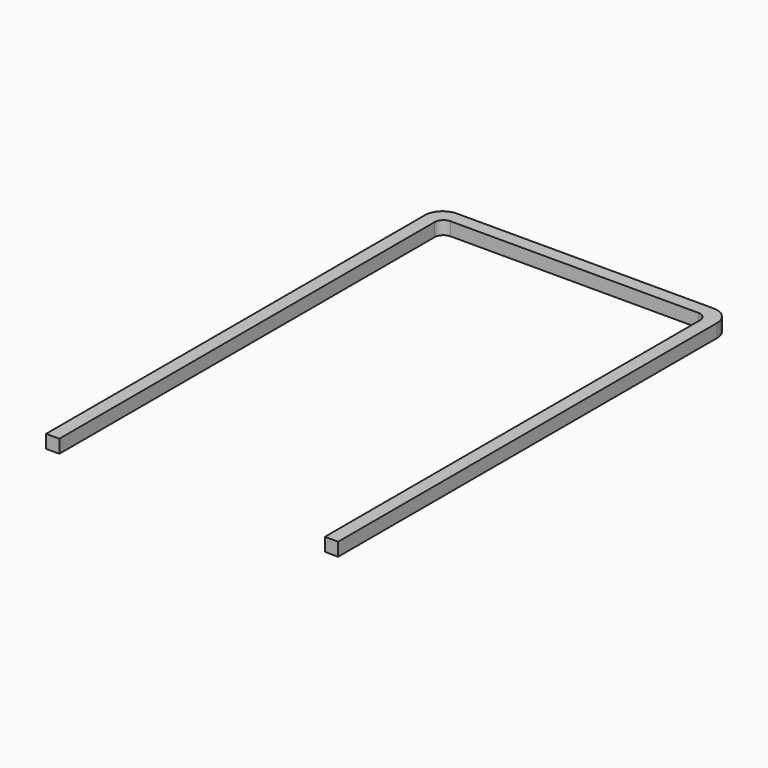
from build123d import *

# Parameters (mm, degrees)
F1_DEPTH = 38.1


with BuildPart() as f1:
    # F0 (on Top) → F1 (new body)
    with BuildSketch(Plane.XY):
        with BuildLine():
            Line((368.3, 704.85), (-368.3, 704.85))
            ThreePointArc((-368.3, 704.85), (-404.221024, 689.971024), (-419.1, 654.05))
            Line((-419.1, 654.05), (-419.1, -704.85))
            Line((-419.1, -704.85), (-381, -704.85))
            Line((-381, -704.85), (-381, 641.35))
            ThreePointArc((-381, 641.35), (-373.560512, 659.310512), (-355.6, 666.75))
            Line((-355.6, 666.75), (355.6, 666.75))
            ThreePointArc((355.6, 666.75), (373.560512, 659.310512), (381, 641.35))
            Line((381, 641.35), (381, -704.85))
            Line((381, -704.85), (419.1, -704.85))
            Line((419.1, -704.85), (419.1, 654.05))
            ThreePointArc((419.1, 654.05), (404.221024, 689.971024), (368.3, 704.85))
        make_face()
    extrude(amount=F1_DEPTH)


solid = f1.part
